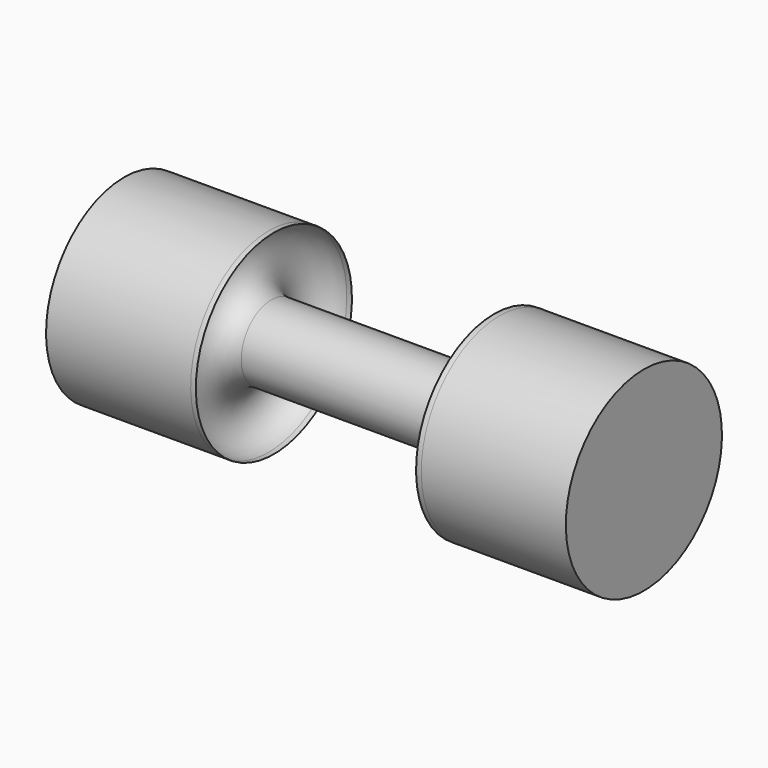
from build123d import *


with BuildPart() as f1:
    # F0 (on Front) → F1 (revolve)
    with BuildSketch(Plane.XZ):
        with BuildLine():
            Line((36.636118, 32.462615), (38.363882, 32.462615))
            ThreePointArc((38.363882, 32.462615), (37.5, 32.5), (36.636118, 32.462615))
        make_face()
        with BuildLine():
            ThreePointArc((-36.636118, 32.462615), (-37.5, 32.5), (-38.363882, 32.462615))
            Line((-38.363882, 32.462615), (-36.636118, 32.462615))
        make_face()
        with BuildLine():
            Line((37.5, 12.5), (0, 12.5))
            Line((0, 12.5), (-37.5, 12.5))
            ThreePointArc((-37.5, 12.5), (-47.49065, 22.067655), (-38.363882, 32.462615))
            Line((-38.363882, 32.462615), (-86.479604, 32.462615))
            Line((-86.479604, 32.462615), (-86.479604, 0))
            Line((-86.479604, 0), (86.479604, 0))
            Line((86.479604, 0), (86.479604, 32.462615))
            Line((86.479604, 32.462615), (38.363882, 32.462615))
            ThreePointArc((38.363882, 32.462615), (47.49065, 22.067655), (37.5, 12.5))
        make_face()
    revolve(axis=Axis((0, 0, 0), (1, 0, 0)))


solid = f1.part
